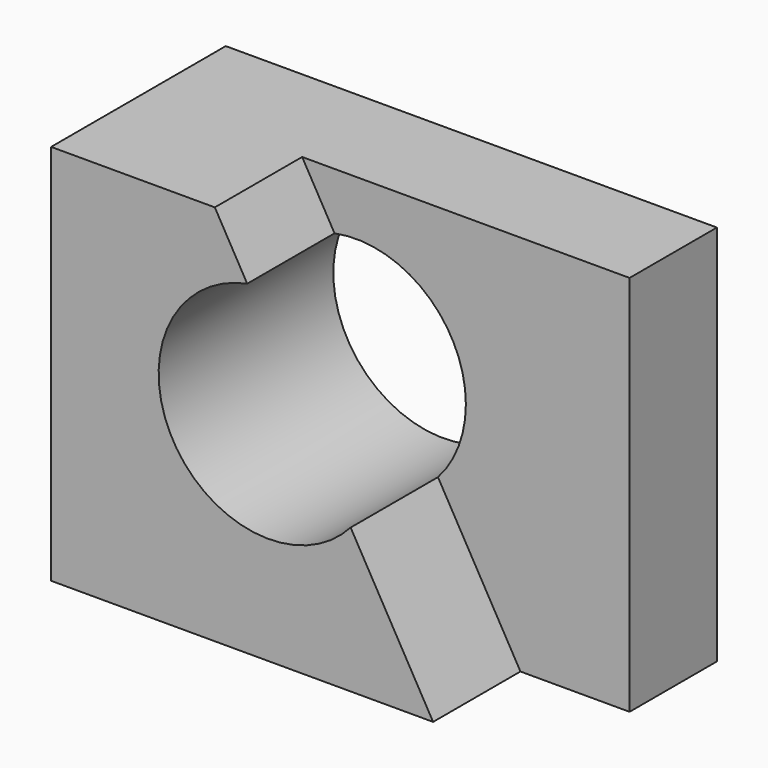
from build123d import *

# Parameters (mm, degrees)
F0_W     = 57.15
F0_H     = 44.45
F1_DEPTH = 25.4
F2_R     = 12.793463
F3_DEPTH = 25.4
F4_W     = 12.7
F4_H     = 12.7
F5_DEPTH = 44.45
F7_DEPTH = 12.7


with BuildPart() as f1:
    # F0 (on Front) → F1 (new body)
    with BuildSketch(Plane.XZ):
        with Locations((-37.38983, 36.408463)):
            Rectangle(F0_W, F0_H)
    extrude(amount=F1_DEPTH)

    # F2 (on face) → F3 (cut)
    with BuildSketch(Plane.XZ.offset(25.4)):
        with Locations((-40.658294, 39.49)):
            Circle(F2_R)
    extrude(amount=-F3_DEPTH, mode=Mode.SUBTRACT)

    # F4 (on face) → F5 (cut)
    with BuildSketch(Plane.XY.offset(58.633463)):
        with Locations((-15.16483, -19.05)):
            Rectangle(F4_W, F4_H)
    extrude(amount=-F5_DEPTH, mode=Mode.SUBTRACT)

    # F6 (on face) → F7 (cut)
    with BuildSketch(Plane.XZ.offset(25.4)):
        Polygon((-21.51483, 58.633463), (-46.91483, 58.633463), (-21.51483, 14.183463), align=None)
    extrude(amount=-F7_DEPTH, mode=Mode.SUBTRACT)


solid = f1.part
